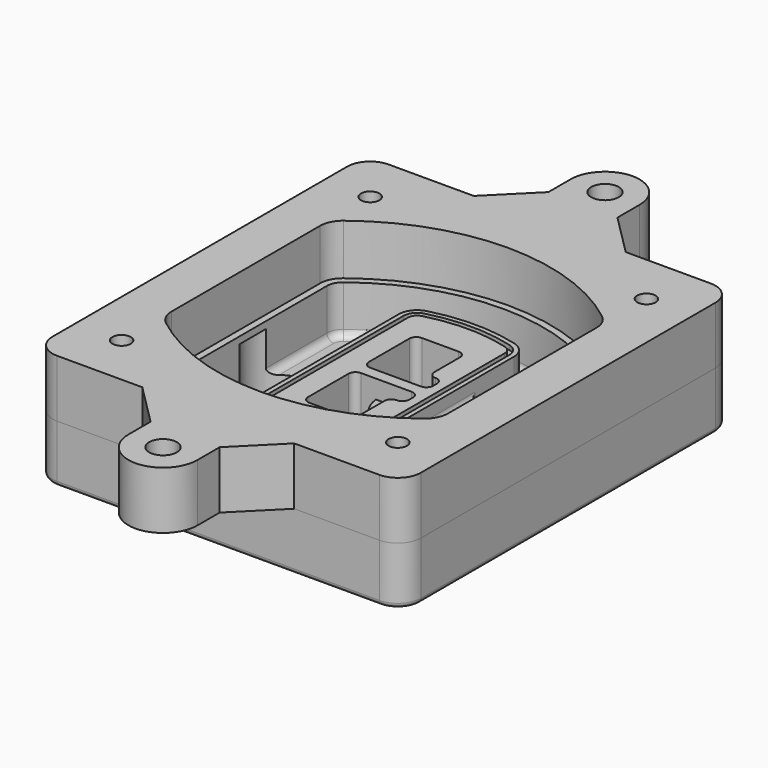
from build123d import *

# Parameters (mm, degrees)
F0_R      = 4
F1_DEPTH  = 25
F2_DEPTH  = 3
F3_DEPTH  = 18
F5_DEPTH  = 21
F6_DEPTH  = 2
F8_DEPTH  = 20
F9_DEPTH  = 16
F10_DEPTH = 25
F7_R      = 6
F7_R_2    = 4
F11_DEPTH = 6
F13_DEPTH = 9
F14_R     = 3
F15_R     = 2
F16_R     = 4
F16_R_2   = 6
F17_DEPTH = 25


with BuildPart() as f1:
    # F0 (on Top) → F1 (new body)
    with BuildSketch(Plane.XY):
        with BuildLine():
            ThreePointArc((-80, -80), (-77.0710678119, -87.0710678119), (-70, -90))
            Line((-70, -90), (70, -90))
            ThreePointArc((70, -90), (77.0710678119, -87.0710678119), (80, -80))
            Line((80, -80), (80, 80))
            ThreePointArc((80, 80), (77.0710678119, 87.0710678119), (70, 90))
            Line((70, 90), (-70, 90))
            ThreePointArc((-70, 90), (-77.0710678119, 87.0710678119), (-80, 80))
            Line((-80, 80), (-80, -80))
        make_face()
        with Locations((-60, -67.5)):
            Circle(F0_R, mode=Mode.SUBTRACT)
        with Locations((60, -67.5)):
            Circle(F0_R, mode=Mode.SUBTRACT)
        with Locations((-60, 67.5)):
            Circle(F0_R, mode=Mode.SUBTRACT)
        with BuildLine():
            ThreePointArc((-64, 40.2934422872), (-62.5820384798, 46.4328484224), (-58.6153846154, 51.3286200352))
            ThreePointArc((-58.6153846154, 51.3286200352), (0, 71.5), (58.6153846154, 51.3286200352))
            ThreePointArc((58.6153846154, 51.3286200352), (62.5820384798, 46.4328484224), (64, 40.2934422872))
            Line((64, 40.2934422872), (64, -40.2934422872))
            ThreePointArc((64, -40.2934422872), (62.5820384798, -46.4328484224), (58.6153846154, -51.3286200352))
            ThreePointArc((58.6153846154, -51.3286200352), (0, -71.5), (-58.6153846154, -51.3286200352))
            ThreePointArc((-58.6153846154, -51.3286200352), (-62.5820384798, -46.4328484224), (-64, -40.2934422872))
            Line((-64, -40.2934422872), (-64, 40.2934422872))
        make_face(mode=Mode.SUBTRACT)
        with Locations((60, 67.5)):
            Circle(F0_R, mode=Mode.SUBTRACT)
        with BuildLine():
            ThreePointArc((58.6153846154, 51.3286200352), (0, 71.5), (-58.6153846154, 51.3286200352))
            ThreePointArc((-58.6153846154, 51.3286200352), (-62.5820384798, 46.4328484224), (-64, 40.2934422872))
            Line((-64, 40.2934422872), (-64, -40.2934422872))
            ThreePointArc((-64, -40.2934422872), (-62.5820384798, -46.4328484224), (-58.6153846154, -51.3286200352))
            ThreePointArc((-58.6153846154, -51.3286200352), (0, -71.5), (58.6153846154, -51.3286200352))
            ThreePointArc((58.6153846154, -51.3286200352), (62.5820384798, -46.4328484224), (64, -40.2934422872))
            Line((64, -40.2934422872), (64, 40.2934422872))
            ThreePointArc((64, 40.2934422872), (62.5820384798, 46.4328484224), (58.6153846154, 51.3286200352))
        make_face()
        with BuildLine():
            Line((-60, -40.2934422872), (-60, 40.2934422872))
            ThreePointArc((-60, 40.2934422872), (-58.9871703427, 44.6787323838), (-56.1538461538, 48.1757121072))
            ThreePointArc((-56.1538461538, 48.1757121072), (0, 67.5), (56.1538461538, 48.1757121072))
            ThreePointArc((56.1538461538, 48.1757121072), (58.9871703427, 44.6787323838), (60, 40.2934422872))
            Line((60, 40.2934422872), (60, -40.2934422872))
            ThreePointArc((60, -40.2934422872), (58.9871703427, -44.6787323838), (56.1538461538, -48.1757121072))
            ThreePointArc((56.1538461538, -48.1757121072), (0, -67.5), (-56.1538461538, -48.1757121072))
            ThreePointArc((-56.1538461538, -48.1757121072), (-58.9871703427, -44.6787323838), (-60, -40.2934422872))
        make_face(mode=Mode.SUBTRACT)
        with BuildLine():
            ThreePointArc((-56.1538461538, 48.1757121072), (-58.9871703427, 44.6787323838), (-60, 40.2934422872))
            Line((-60, 40.2934422872), (-60, -40.2934422872))
            ThreePointArc((-60, -40.2934422872), (-58.9871703427, -44.6787323838), (-56.1538461538, -48.1757121072))
            ThreePointArc((-56.1538461538, -48.1757121072), (0, -67.5), (56.1538461538, -48.1757121072))
            ThreePointArc((56.1538461538, -48.1757121072), (58.9871703427, -44.6787323838), (60, -40.2934422872))
            Line((60, -40.2934422872), (60, 40.2934422872))
            ThreePointArc((60, 40.2934422872), (58.9871703427, 44.6787323838), (56.1538461538, 48.1757121072))
            ThreePointArc((56.1538461538, 48.1757121072), (0, 67.5), (-56.1538461538, 48.1757121072))
        make_face()
        with BuildLine():
            ThreePointArc((54.3076923077, 45.8110311612), (56.2910192399, 43.3631453548), (57, 40.2934422872))
            Line((57, 40.2934422872), (57, -40.2934422872))
            ThreePointArc((57, -40.2934422872), (56.2910192399, -43.3631453548), (54.3076923077, -45.8110311612))
            ThreePointArc((54.3076923077, -45.8110311612), (0, -64.5), (-54.3076923077, -45.8110311612))
            ThreePointArc((-54.3076923077, -45.8110311612), (-56.2910192399, -43.3631453548), (-57, -40.2934422872))
            Line((-57, -40.2934422872), (-57, 40.2934422872))
            ThreePointArc((-57, 40.2934422872), (-56.2910192399, 43.3631453548), (-54.3076923077, 45.8110311612))
            ThreePointArc((-54.3076923077, 45.8110311612), (0, 64.5), (54.3076923077, 45.8110311612))
        make_face(mode=Mode.SUBTRACT)
        with BuildLine():
            Line((57, -40.2934422872), (57, 40.2934422872))
            ThreePointArc((57, 40.2934422872), (56.2910192399, 43.3631453548), (54.3076923077, 45.8110311612))
            ThreePointArc((54.3076923077, 45.8110311612), (0, 64.5), (-54.3076923077, 45.8110311612))
            ThreePointArc((-54.3076923077, 45.8110311612), (-56.2910192399, 43.3631453548), (-57, 40.2934422872))
            Line((-57, 40.2934422872), (-57, -40.2934422872))
            ThreePointArc((-57, -40.2934422872), (-56.2910192399, -43.3631453548), (-54.3076923077, -45.8110311612))
            ThreePointArc((-54.3076923077, -45.8110311612), (0, -64.5), (54.3076923077, -45.8110311612))
            ThreePointArc((54.3076923077, -45.8110311612), (56.2910192399, -43.3631453548), (57, -40.2934422872))
        make_face()
    extrude(amount=-F1_DEPTH)

    # F0 (on Top) → F2 (join)
    with BuildSketch(Plane.XY):
        with BuildLine():
            ThreePointArc((-56.1538461538, 48.1757121072), (-58.9871703427, 44.6787323838), (-60, 40.2934422872))
            Line((-60, 40.2934422872), (-60, -40.2934422872))
            ThreePointArc((-60, -40.2934422872), (-58.9871703427, -44.6787323838), (-56.1538461538, -48.1757121072))
            ThreePointArc((-56.1538461538, -48.1757121072), (0, -67.5), (56.1538461538, -48.1757121072))
            ThreePointArc((56.1538461538, -48.1757121072), (58.9871703427, -44.6787323838), (60, -40.2934422872))
            Line((60, -40.2934422872), (60, 40.2934422872))
            ThreePointArc((60, 40.2934422872), (58.9871703427, 44.6787323838), (56.1538461538, 48.1757121072))
            ThreePointArc((56.1538461538, 48.1757121072), (0, 67.5), (-56.1538461538, 48.1757121072))
        make_face()
        with BuildLine():
            ThreePointArc((54.3076923077, 45.8110311612), (56.2910192399, 43.3631453548), (57, 40.2934422872))
            Line((57, 40.2934422872), (57, -40.2934422872))
            ThreePointArc((57, -40.2934422872), (56.2910192399, -43.3631453548), (54.3076923077, -45.8110311612))
            ThreePointArc((54.3076923077, -45.8110311612), (0, -64.5), (-54.3076923077, -45.8110311612))
            ThreePointArc((-54.3076923077, -45.8110311612), (-56.2910192399, -43.3631453548), (-57, -40.2934422872))
            Line((-57, -40.2934422872), (-57, 40.2934422872))
            ThreePointArc((-57, 40.2934422872), (-56.2910192399, 43.3631453548), (-54.3076923077, 45.8110311612))
            ThreePointArc((-54.3076923077, 45.8110311612), (0, 64.5), (54.3076923077, 45.8110311612))
        make_face(mode=Mode.SUBTRACT)
    extrude(amount=F2_DEPTH)

    # F0 (on Top) → F3 (cut)
    with BuildSketch(Plane.XY):
        with BuildLine():
            Line((57, -40.2934422872), (57, 40.2934422872))
            ThreePointArc((57, 40.2934422872), (56.2910192399, 43.3631453548), (54.3076923077, 45.8110311612))
            ThreePointArc((54.3076923077, 45.8110311612), (0, 64.5), (-54.3076923077, 45.8110311612))
            ThreePointArc((-54.3076923077, 45.8110311612), (-56.2910192399, 43.3631453548), (-57, 40.2934422872))
            Line((-57, 40.2934422872), (-57, -40.2934422872))
            ThreePointArc((-57, -40.2934422872), (-56.2910192399, -43.3631453548), (-54.3076923077, -45.8110311612))
            ThreePointArc((-54.3076923077, -45.8110311612), (0, -64.5), (54.3076923077, -45.8110311612))
            ThreePointArc((54.3076923077, -45.8110311612), (56.2910192399, -43.3631453548), (57, -40.2934422872))
        make_face()
    extrude(amount=-F3_DEPTH, mode=Mode.SUBTRACT)

    # F4 (on face) → F5 (join, through all)
    with BuildSketch(Plane.XY.offset(3)):
        with BuildLine():
            ThreePointArc((-25, -39.2465276821), (-23.3511545998, -44.1109737193), (-19.0842911877, -46.9702398883))
            ThreePointArc((-19.0842911877, -46.9702398883), (0, -49.5), (19.0842911877, -46.9702398883))
            ThreePointArc((19.0842911877, -46.9702398883), (23.3511545998, -44.1109737193), (25, -39.2465276821))
            Line((25, -39.2465276821), (25, 39.2465276821))
            ThreePointArc((25, 39.2465276821), (23.3511545998, 44.1109737193), (19.0842911877, 46.9702398883))
            ThreePointArc((19.0842911877, 46.9702398883), (0, 49.5), (-19.0842911877, 46.9702398883))
            ThreePointArc((-19.0842911877, 46.9702398883), (-23.3511545998, 44.1109737193), (-25, 39.2465276821))
            Line((-25, 39.2465276821), (-25, -39.2465276821))
        make_face()
        with BuildLine():
            ThreePointArc((18.5632183908, 45.0393118368), (21.7633659499, 42.89486221), (23, 39.2465276821))
            Line((23, 39.2465276821), (23, -39.2465276821))
            ThreePointArc((23, -39.2465276821), (21.7633659499, -42.89486221), (18.5632183908, -45.0393118368))
            ThreePointArc((18.5632183908, -45.0393118368), (0, -47.5), (-18.5632183908, -45.0393118368))
            ThreePointArc((-18.5632183908, -45.0393118368), (-21.7633659499, -42.89486221), (-23, -39.2465276821))
            Line((-23, -39.2465276821), (-23, 39.2465276821))
            ThreePointArc((-23, 39.2465276821), (-21.7633659499, 42.89486221), (-18.5632183908, 45.0393118368))
            ThreePointArc((-18.5632183908, 45.0393118368), (0, 47.5), (18.5632183908, 45.0393118368))
        make_face(mode=Mode.SUBTRACT)
        with BuildLine():
            Line((23, -39.2465276821), (23, 39.2465276821))
            ThreePointArc((23, 39.2465276821), (21.7633659499, 42.89486221), (18.5632183908, 45.0393118368))
            ThreePointArc((18.5632183908, 45.0393118368), (0, 47.5), (-18.5632183908, 45.0393118368))
            ThreePointArc((-18.5632183908, 45.0393118368), (-21.7633659499, 42.89486221), (-23, 39.2465276821))
            Line((-23, 39.2465276821), (-23, -39.2465276821))
            ThreePointArc((-23, -39.2465276821), (-21.7633659499, -42.89486221), (-18.5632183908, -45.0393118368))
            ThreePointArc((-18.5632183908, -45.0393118368), (0, -47.5), (18.5632183908, -45.0393118368))
            ThreePointArc((18.5632183908, -45.0393118368), (21.7633659499, -42.89486221), (23, -39.2465276821))
        make_face()
        with BuildLine():
            ThreePointArc((18.0421455939, 43.1083837852), (20.1755772999, 41.6787507007), (21, 39.2465276821))
            Line((21, 39.2465276821), (21, -39.2465276821))
            ThreePointArc((21, -39.2465276821), (20.1755772999, -41.6787507007), (18.0421455939, -43.1083837852))
            ThreePointArc((18.0421455939, -43.1083837852), (0, -45.5), (-18.0421455939, -43.1083837852))
            ThreePointArc((-18.0421455939, -43.1083837852), (-20.1755772999, -41.6787507007), (-21, -39.2465276821))
            Line((-21, -39.2465276821), (-21, 39.2465276821))
            ThreePointArc((-21, 39.2465276821), (-20.1755772999, 41.6787507007), (-18.0421455939, 43.1083837852))
            ThreePointArc((-18.0421455939, 43.1083837852), (0, 45.5), (18.0421455939, 43.1083837852))
        make_face(mode=Mode.SUBTRACT)
        with BuildLine():
            Line((21, -39.2465276821), (21, 39.2465276821))
            ThreePointArc((21, 39.2465276821), (20.1755772999, 41.6787507007), (18.0421455939, 43.1083837852))
            ThreePointArc((18.0421455939, 43.1083837852), (0, 45.5), (-18.0421455939, 43.1083837852))
            ThreePointArc((-18.0421455939, 43.1083837852), (-20.1755772999, 41.6787507007), (-21, 39.2465276821))
            Line((-21, 39.2465276821), (-21, -39.2465276821))
            ThreePointArc((-21, -39.2465276821), (-20.1755772999, -41.6787507007), (-18.0421455939, -43.1083837852))
            ThreePointArc((-18.0421455939, -43.1083837852), (0, -45.5), (18.0421455939, -43.1083837852))
            ThreePointArc((18.0421455939, -43.1083837852), (20.1755772999, -41.6787507007), (21, -39.2465276821))
        make_face()
        with BuildLine():
            Line((-8, -2.5), (14, -2.5))
            ThreePointArc((14, -2.5), (16.1213203436, -3.3786796564), (17, -5.5))
            Line((17, -5.5), (17, -7.5))
            ThreePointArc((17, -7.5), (16.1213203436, -9.6213203436), (14, -10.5))
            ThreePointArc((14, -10.5), (11.8786796564, -11.3786796564), (11, -13.5))
            Line((11, -13.5), (11, -27.5))
            ThreePointArc((11, -27.5), (10.1213203436, -29.6213203436), (8, -30.5))
            Line((8, -30.5), (-8, -30.5))
            ThreePointArc((-8, -30.5), (-10.1213203436, -29.6213203436), (-11, -27.5))
            Line((-11, -27.5), (-11, -5.5))
            ThreePointArc((-11, -5.5), (-10.1213203436, -3.3786796564), (-8, -2.5))
        make_face(mode=Mode.SUBTRACT)
        with BuildLine():
            ThreePointArc((-8, 2.5), (-10.1213203436, 3.3786796564), (-11, 5.5))
            Line((-11, 5.5), (-11, 27.5))
            ThreePointArc((-11, 27.5), (-10.1213203436, 29.6213203436), (-8, 30.5))
            Line((-8, 30.5), (8, 30.5))
            ThreePointArc((8, 30.5), (10.1213203436, 29.6213203436), (11, 27.5))
            Line((11, 27.5), (11, 13.5))
            ThreePointArc((11, 13.5), (11.8786796564, 11.3786796564), (14, 10.5))
            ThreePointArc((14, 10.5), (16.1213203436, 9.6213203436), (17, 7.5))
            Line((17, 7.5), (17, 5.5))
            ThreePointArc((17, 5.5), (16.1213203436, 3.3786796564), (14, 2.5))
            Line((14, 2.5), (-8, 2.5))
        make_face(mode=Mode.SUBTRACT)
    extrude(amount=-F5_DEPTH)

    # F4 (on face) → F6 (cut)
    with BuildSketch(Plane.XY.offset(3)):
        with BuildLine():
            Line((23, -39.2465276821), (23, 39.2465276821))
            ThreePointArc((23, 39.2465276821), (21.7633659499, 42.89486221), (18.5632183908, 45.0393118368))
            ThreePointArc((18.5632183908, 45.0393118368), (0, 47.5), (-18.5632183908, 45.0393118368))
            ThreePointArc((-18.5632183908, 45.0393118368), (-21.7633659499, 42.89486221), (-23, 39.2465276821))
            Line((-23, 39.2465276821), (-23, -39.2465276821))
            ThreePointArc((-23, -39.2465276821), (-21.7633659499, -42.89486221), (-18.5632183908, -45.0393118368))
            ThreePointArc((-18.5632183908, -45.0393118368), (0, -47.5), (18.5632183908, -45.0393118368))
            ThreePointArc((18.5632183908, -45.0393118368), (21.7633659499, -42.89486221), (23, -39.2465276821))
        make_face()
        with BuildLine():
            ThreePointArc((18.0421455939, 43.1083837852), (20.1755772999, 41.6787507007), (21, 39.2465276821))
            Line((21, 39.2465276821), (21, -39.2465276821))
            ThreePointArc((21, -39.2465276821), (20.1755772999, -41.6787507007), (18.0421455939, -43.1083837852))
            ThreePointArc((18.0421455939, -43.1083837852), (0, -45.5), (-18.0421455939, -43.1083837852))
            ThreePointArc((-18.0421455939, -43.1083837852), (-20.1755772999, -41.6787507007), (-21, -39.2465276821))
            Line((-21, -39.2465276821), (-21, 39.2465276821))
            ThreePointArc((-21, 39.2465276821), (-20.1755772999, 41.6787507007), (-18.0421455939, 43.1083837852))
            ThreePointArc((-18.0421455939, 43.1083837852), (0, 45.5), (18.0421455939, 43.1083837852))
        make_face(mode=Mode.SUBTRACT)
    extrude(amount=-F6_DEPTH, mode=Mode.SUBTRACT)

    # F7 (on face) → F8 (join)
    with BuildSketch(Plane(origin=(0, 0, -25), x_dir=(1, 0, 0), z_dir=(0, 0, -1))):
        with BuildLine():
            ThreePointArc((3.28842436, 0), (16.7567035675, 13.4682792075), (30.224982775, 0))
            Line((30.224982775, 0), (35.224982775, 0))
            ThreePointArc((35.224982775, 0), (16.7567035675, 18.4682792075), (-1.71157564, 0))
            Line((-1.71157564, 0), (3.28842436, 0))
        make_face()
        with BuildLine():
            Line((3.28842436, 0), (30.224982775, 0))
            ThreePointArc((30.224982775, 0), (16.7567035675, 13.4682792075), (3.28842436, 0))
        make_face()
        with BuildLine():
            ThreePointArc((3.28842436, 0), (16.7567035675, -13.4682792075), (30.224982775, 0))
            Line((30.224982775, 0), (3.28842436, 0))
        make_face()
        with BuildLine():
            Line((35.224982775, 0), (30.224982775, 0))
            ThreePointArc((30.224982775, 0), (16.7567035675, -13.4682792075), (3.28842436, 0))
            Line((3.28842436, 0), (-1.71157564, 0))
            ThreePointArc((-1.71157564, 0), (16.7567035675, -18.4682792075), (35.224982775, 0))
        make_face()
    extrude(amount=-F8_DEPTH)

    # F7 (on face) → F9 (cut)
    with BuildSketch(Plane(origin=(0, 0, -25), x_dir=(1, 0, 0), z_dir=(0, 0, -1))):
        with BuildLine():
            Line((3.28842436, 0), (30.224982775, 0))
            ThreePointArc((30.224982775, 0), (16.7567035675, 13.4682792075), (3.28842436, 0))
        make_face()
        with BuildLine():
            ThreePointArc((3.28842436, 0), (16.7567035675, -13.4682792075), (30.224982775, 0))
            Line((30.224982775, 0), (3.28842436, 0))
        make_face()
    extrude(amount=-F9_DEPTH, mode=Mode.SUBTRACT)

    # F7 (on face) → F10 (cut)
    with BuildSketch(Plane(origin=(0, 0, -25), x_dir=(1, 0, 0), z_dir=(0, 0, -1))):
        with BuildLine():
            Line((-59.0318229325, 0), (-32.0952645175, 0))
            ThreePointArc((-32.0952645175, 0), (-45.563543725, 13.4682792075), (-59.0318229325, 0))
        make_face()
        with BuildLine():
            ThreePointArc((-59.0318229325, 0), (-45.563543725, -13.4682792075), (-32.0952645175, 0))
            Line((-32.0952645175, 0), (-59.0318229325, 0))
        make_face()
    extrude(amount=-F10_DEPTH, mode=Mode.SUBTRACT)

    # F7 (on face) → F11 (cut)
    with BuildSketch(Plane(origin=(0, 0, -25), x_dir=(1, 0, 0), z_dir=(0, 0, -1))):
        with Locations((60, -67.5)):
            Circle(F7_R)
        with Locations((60, -67.5)):
            Circle(F7_R_2, mode=Mode.SUBTRACT)
        with Locations((60, -67.5)):
            Circle(F7_R)
        with Locations((60, -67.5)):
            Circle(F7_R_2, mode=Mode.SUBTRACT)
        with Locations((-60, -67.5)):
            Circle(F7_R)
        with Locations((-60, -67.5)):
            Circle(F7_R_2, mode=Mode.SUBTRACT)
        with Locations((-60, -67.5)):
            Circle(F7_R)
        with Locations((-60, -67.5)):
            Circle(F7_R_2, mode=Mode.SUBTRACT)
        with Locations((-60, 67.5)):
            Circle(F7_R)
        with Locations((-60, 67.5)):
            Circle(F7_R_2, mode=Mode.SUBTRACT)
        with Locations((-60, 67.5)):
            Circle(F7_R)
        with Locations((-60, 67.5)):
            Circle(F7_R_2, mode=Mode.SUBTRACT)
        with Locations((60, 67.5)):
            Circle(F7_R)
        with Locations((60, 67.5)):
            Circle(F7_R_2, mode=Mode.SUBTRACT)
        with Locations((60, 67.5)):
            Circle(F7_R)
        with Locations((60, 67.5)):
            Circle(F7_R_2, mode=Mode.SUBTRACT)
    extrude(amount=-F11_DEPTH, mode=Mode.SUBTRACT)

    # F12 (on face) → F13 (cut, through all)
    with BuildSketch(Plane(origin=(0, 0, -9), x_dir=(1, 0, 0), z_dir=(0, 0, -1))):
        with BuildLine():
            Line((11, 13.5), (11, 17.5481537753))
            ThreePointArc((11, 17.5481537753), (2.5696536419, 11.8239143813), (-1.5415842455, 2.5))
            Line((-1.5415842455, 2.5), (3.5224848595, 2.5))
            ThreePointArc((3.5224848595, 2.5), (6.1857188154, 8.3455872281), (11.2536447004, 12.2927168648))
            ThreePointArc((11.2536447004, 12.2927168648), (11.0640958889, 12.8831798879), (11, 13.5))
        make_face()
        with BuildLine():
            ThreePointArc((11.2536447004, -12.2927168648), (6.1857188154, -8.3455872281), (3.5224848595, -2.5))
            Line((3.5224848595, -2.5), (-1.5415842455, -2.5))
            ThreePointArc((-1.5415842455, -2.5), (2.5696536419, -11.8239143813), (11, -17.5481537753))
            Line((11, -17.5481537753), (11, -13.5))
            ThreePointArc((11, -13.5), (11.0640958889, -12.8831798879), (11.2536447004, -12.2927168648))
        make_face()
        with BuildLine():
            ThreePointArc((11.2536447004, 12.2927168648), (6.1857188154, 8.3455872281), (3.5224848595, 2.5))
            Line((3.5224848595, 2.5), (14, 2.5))
            ThreePointArc((14, 2.5), (16.1213203436, 3.3786796564), (17, 5.5))
            Line((17, 5.5), (17, 7.5))
            ThreePointArc((17, 7.5), (16.1213203436, 9.6213203436), (14, 10.5))
            ThreePointArc((14, 10.5), (12.3601599782, 10.9878446101), (11.2536447004, 12.2927168648))
        make_face()
        with BuildLine():
            Line((14, -2.5), (3.5224848595, -2.5))
            ThreePointArc((3.5224848595, -2.5), (6.1857188154, -8.3455872281), (11.2536447004, -12.2927168648))
            ThreePointArc((11.2536447004, -12.2927168648), (12.3601599782, -10.9878446101), (14, -10.5))
            ThreePointArc((14, -10.5), (16.1213203436, -9.6213203436), (17, -7.5))
            Line((17, -7.5), (17, -5.5))
            ThreePointArc((17, -5.5), (16.1213203436, -3.3786796564), (14, -2.5))
        make_face()
    extrude(amount=F13_DEPTH, mode=Mode.SUBTRACT)

    # F14
    f14_edges = [f1.edges().sort_by_distance(p)[0] for p in [
        (-57, -23.703476, -18),
        (-57, 23.703476, -18),
        (25, 0, -5),
        (25, 16.526506, -11.5),
        (25, -16.526506, -11.5),
        (25, -27.886517, -18),
        (35.224983, 0, -18),
    ]]
    fillet(f14_edges, radius=F14_R)

    # F15
    f15_edges = [f1.edges().sort_by_distance(p)[0] for p in [
        (0, -90, -25),
    ]]
    fillet(f15_edges, radius=F15_R)


with BuildPart() as f17:
    # F16 (on face) → F17 (new body)
    with BuildSketch(Plane.XY):
        with BuildLine():
            Line((-33, 90), (-70, 90))
            ThreePointArc((-70, 90), (-77.0710678119, 87.0710678119), (-80, 80))
            Line((-80, 80), (-80, -80))
            ThreePointArc((-80, -80), (-77.0710678119, -87.0710678119), (-70, -90))
            Line((-70, -90), (-33, -90))
            Line((-33, -90), (33, -90))
            Line((33, -90), (70, -90))
            ThreePointArc((70, -90), (77.0710678119, -87.0710678119), (80, -80))
            Line((80, -80), (80, 80))
            ThreePointArc((80, 80), (77.0710678119, 87.0710678119), (70, 90))
            Line((70, 90), (33, 90))
            Line((33, 90), (-33, 90))
        make_face()
        with Locations((-60, -67.5)):
            Circle(F16_R, mode=Mode.SUBTRACT)
        with Locations((60, -67.5)):
            Circle(F16_R, mode=Mode.SUBTRACT)
        with Locations((-60, 67.5)):
            Circle(F16_R, mode=Mode.SUBTRACT)
        with BuildLine():
            ThreePointArc((56.1538461538, -48.1757121072), (0, -67.5), (-56.1538461538, -48.1757121072))
            ThreePointArc((-56.1538461538, -48.1757121072), (-58.9871703427, -44.6787323838), (-60, -40.2934422872))
            Line((-60, -40.2934422872), (-60, 40.2934422872))
            ThreePointArc((-60, 40.2934422872), (-58.9871703427, 44.6787323838), (-56.1538461538, 48.1757121072))
            ThreePointArc((-56.1538461538, 48.1757121072), (0, 67.5), (56.1538461538, 48.1757121072))
            ThreePointArc((56.1538461538, 48.1757121072), (58.9871703427, 44.6787323838), (60, 40.2934422872))
            Line((60, 40.2934422872), (60, -40.2934422872))
            ThreePointArc((60, -40.2934422872), (58.9871703427, -44.6787323838), (56.1538461538, -48.1757121072))
        make_face(mode=Mode.SUBTRACT)
        with Locations((60, 67.5)):
            Circle(F16_R, mode=Mode.SUBTRACT)
        with BuildLine():
            Line((-15, 108), (-33, 90))
            Line((-33, 90), (33, 90))
            Line((33, 90), (15, 108))
            Line((15, 108), (15, 120))
            ThreePointArc((15, 120), (0, 135), (-15, 120))
            Line((-15, 120), (-15, 108))
        make_face()
        with Locations((0, 120)):
            Circle(F16_R_2, mode=Mode.SUBTRACT)
        with BuildLine():
            Line((33, -90), (-33, -90))
            Line((-33, -90), (-15, -108))
            Line((-15, -108), (-15, -120))
            ThreePointArc((-15, -120), (0, -135), (15, -120))
            Line((15, -120), (15, -108))
            Line((15, -108), (33, -90))
        make_face()
        with Locations((0, -120)):
            Circle(F16_R_2, mode=Mode.SUBTRACT)
    extrude(amount=F17_DEPTH)


solid = Compound([f1.part, f17.part])
